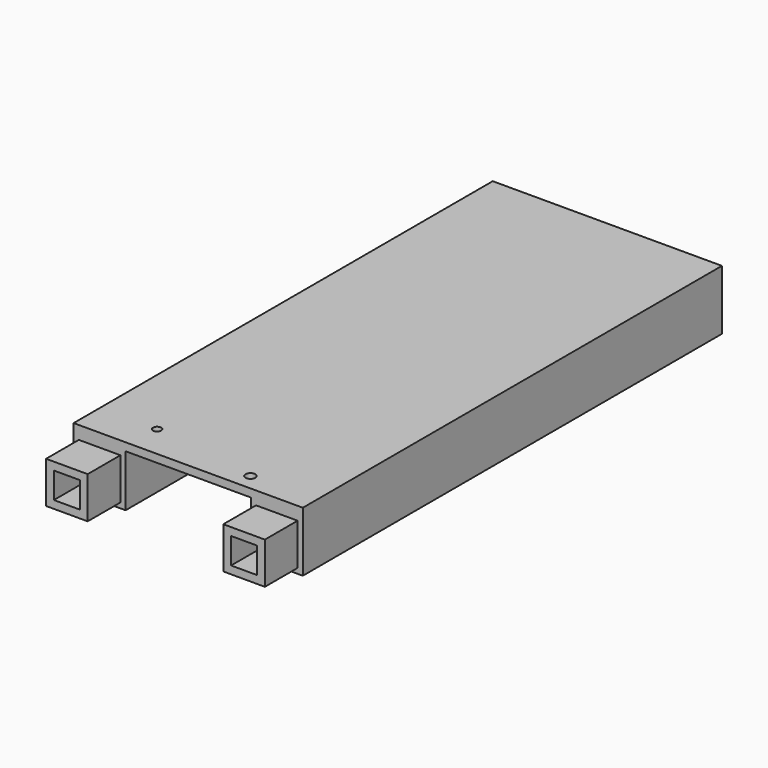
from build123d import *

# Parameters (mm, degrees)
F0_W     = 140
F0_H     = 320
F1_DEPTH = 4.826
F2_W     = 31.75
F2_H     = 31.75
F2_W_2   = 25.4
F2_H_2   = 25.4
F3_DEPTH = 320
F4_W     = 25.4
F4_H     = 25.4
F4_W_2   = 15.874
F4_H_2   = 15.874
F5_DEPTH = 25
F6_R     = 2
F7_DEPTH = 4
F8_R     = 2.5
F8_R_2   = 3
F9_DEPTH = 4


with BuildPart() as f1:
    # F0 (on Top) → F1 (new body)
    with BuildSketch(Plane.XY):
        with Locations((-1.276044, 117.026612)):
            Rectangle(F0_W, F0_H)
    extrude(amount=F1_DEPTH)

    # F2 (on face) → F3 (join)
    with BuildSketch(Plane.XZ.offset(42.973388)):
        with Locations((-55.401044, -15.875)):
            Rectangle(F2_W, F2_H)
        with Locations((-55.401044, -15.875)):
            Rectangle(F2_W_2, F2_H_2, mode=Mode.SUBTRACT)
        with Locations((52.848956, -15.875)):
            Rectangle(F2_W, F2_H)
        with Locations((52.848956, -15.875)):
            Rectangle(F2_W_2, F2_H_2, mode=Mode.SUBTRACT)
    extrude(amount=-F3_DEPTH)

    # F4 (on face) → F5 (join, symmetric)
    with BuildSketch(Plane.XZ.offset(42.973388)):
        with Locations((-55.401044, -15.875)):
            Rectangle(F4_W, F4_H)
        with Locations((-55.401044, -15.875)):
            Rectangle(F4_W_2, F4_H_2, mode=Mode.SUBTRACT)
        with Locations((52.848956, -15.875)):
            Rectangle(F4_W, F4_H)
        with Locations((52.848956, -15.875)):
            Rectangle(F4_W_2, F4_H_2, mode=Mode.SUBTRACT)
    extrude(amount=F5_DEPTH, both=True)

    # F6 (on face) → F7 (cut)
    with BuildSketch(Plane.YZ.offset(-39.526044)):
        with Locations((117.026612, -21.75)):
            Circle(F6_R)
    extrude(amount=-F7_DEPTH, mode=Mode.SUBTRACT)

    # F8 (on face) → F9 (cut)
    with BuildSketch(Plane.XY.offset(4.826)):
        with Locations((-36.276044, -22.973388)):
            Circle(F8_R)
        with Locations((28.723956, -32.973388)):
            Circle(F8_R_2)
    extrude(amount=-F9_DEPTH, mode=Mode.SUBTRACT)


solid = f1.part
